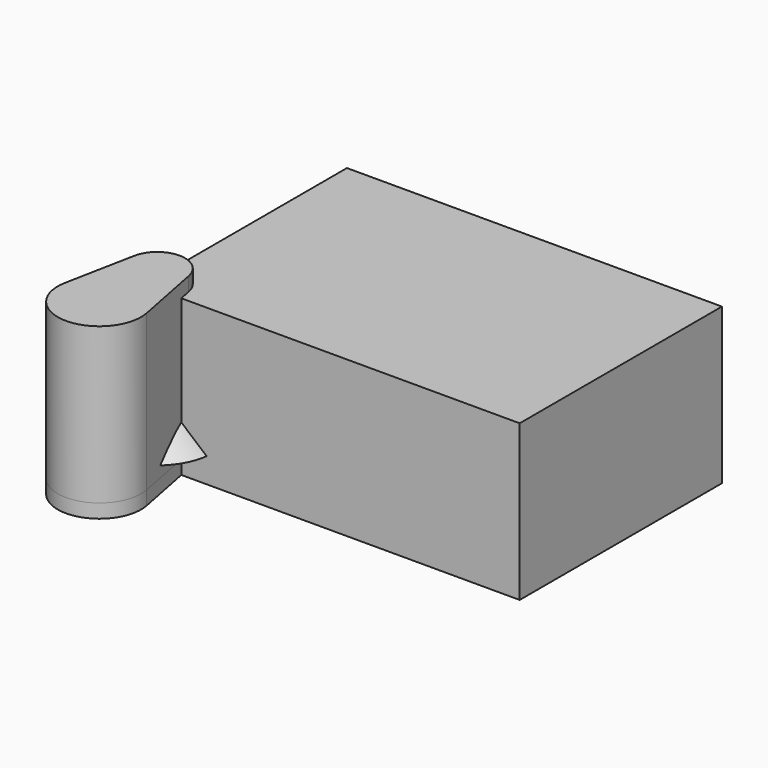
from build123d import *

# Parameters (mm, degrees)
F0_W     = 130
F0_H     = 86
F1_DEPTH = 54
F2_T     = -2
F3_W     = 135
F3_H     = 91
F4_DEPTH = 56
F5_T     = -2
F7_DEPTH = 5
F8_START = 5
F8_DEPTH = 56
F11_R    = 5
F12_R    = 0.1


with BuildPart() as f1:
    # F0 (on Top) → F1 (new body)
    with BuildSketch(Plane.XY):
        with Locations((65, 43)):
            Rectangle(F0_W, F0_H)
    extrude(amount=F1_DEPTH)

    # F2
    f2_openings = [f1.faces().sort_by_distance(p)[0] for p in [
        (65, 43, 54),
    ]]
    offset(amount=F2_T, openings=f2_openings)


with BuildPart() as f4:
    # F3 (on Top) → F4 (new body, through all)
    with BuildSketch(Plane.XY):
        with Locations((65, 43)):
            Rectangle(F3_W, F3_H)
    extrude(amount=F4_DEPTH)

    # F5
    f5_openings = [f4.faces().sort_by_distance(p)[0] for p in [
        (65, 43, 0),
    ]]
    offset(amount=F5_T, openings=f5_openings)


with BuildPart() as f7:
    # F6 (on Top) → F7 (new body)
    with BuildSketch(Plane.XY):
        with BuildLine():
            Line((14.7200201794, -23.1153846154), (9.8133467863, 1.9230769231))
            ThreePointArc((9.8133467863, 1.9230769231), (0, 10), (-9.8133467863, 1.9230769231))
            Line((-9.8133467863, 1.9230769231), (-14.7200201794, -23.1153846154))
            ThreePointArc((-14.7200201794, -23.1153846154), (0, -41), (14.7200201794, -23.1153846154))
        make_face()
    extrude(amount=F7_DEPTH)


with BuildPart() as f8:
    # F6 (on Top) → F8 (new body)
    with BuildSketch(Plane.XY.offset(F8_START)):
        with BuildLine():
            Line((14.7200201794, -23.1153846154), (9.8133467863, 1.9230769231))
            ThreePointArc((9.8133467863, 1.9230769231), (0, 10), (-9.8133467863, 1.9230769231))
            Line((-9.8133467863, 1.9230769231), (-14.7200201794, -23.1153846154))
            ThreePointArc((-14.7200201794, -23.1153846154), (0, -41), (14.7200201794, -23.1153846154))
        make_face()
    extrude(amount=F8_DEPTH)


with BuildPart() as f10:
    # F9 (on Front) → F10 (revolve)
    with BuildSketch(Plane.XZ):
        with BuildLine():
            Line((0, 25), (0, 0))
            Line((0, 0), (4, 0))
            Line((4, 0), (4, 3))
            Line((4, 3), (3.5, 3))
            Line((3.5, 3), (3.5, 4.5))
            ThreePointArc((3.5, 4.5), (3.0000563073, 13.3334093128), (3.4790330346, 22.1679803312))
            ThreePointArc((3.4790330346, 22.1679803312), (3.3079136715, 23.694060493), (2.5, 25))
            Line((2.5, 25), (0, 25))
        make_face()
    revolve(axis=Axis((0, 0, 15.574289132), (0, 0, 1)))

    # F11
    f11_edges = [f10.edges().sort_by_distance(p)[0] for p in [
        (-3.5, 0, 4.5),
    ]]
    fillet(f11_edges, radius=F11_R)

    # F12
    f12_edges = [f10.edges().sort_by_distance(p)[0] for p in [
        (-3.5, 0, 3),
        (-4, 0, 3),
    ]]
    fillet(f12_edges, radius=F12_R)


with BuildPart() as f13:
    # F9 (on Front) → F13 (revolve)
    with BuildSketch(Plane.XZ):
        Polygon((-7.4878484011, 19.7298005223), (-19.9729353189, 8.9338691905), (-7.4878484011, 8.9338691905), align=None)
    revolve(axis=Axis((0, 0, 15.574289132), (0, 0, 1)))


solid = Compound([f1.part, f4.part, f7.part, f8.part, f10.part, f13.part])
